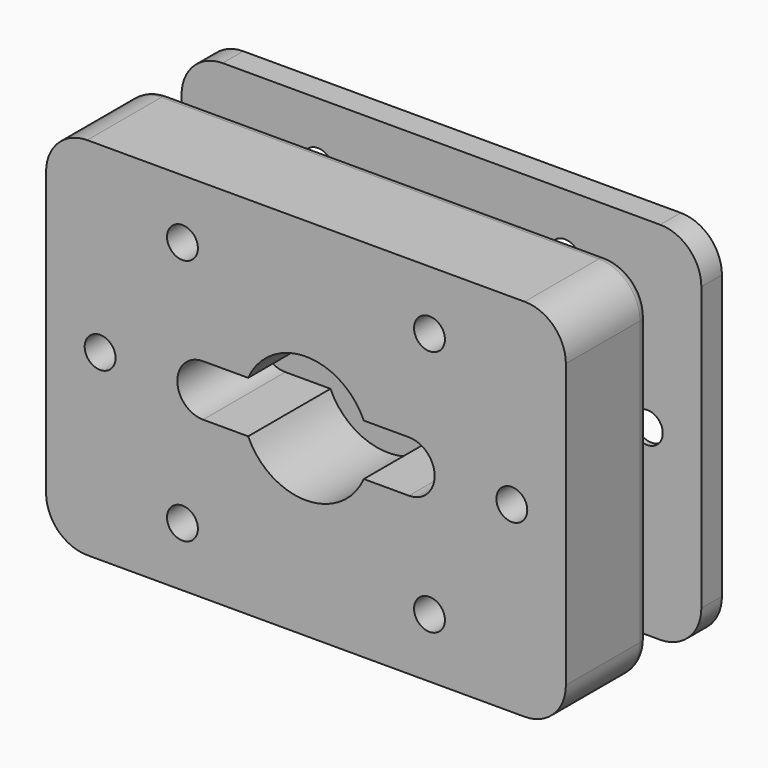
from build123d import *

# Parameters (mm, degrees)
F0_R     = 3.75
F0_R_2   = 1.5
F3_DEPTH = 2.5
F4_DEPTH = 2
F4_TAPER = 45
F2_R     = 1.5
F5_DEPTH = 10
F6_R     = 1


with BuildPart() as f3:
    # F0 (on Front) → F3 (new body)
    with BuildSketch(Plane.XZ):
        with BuildLine():
            ThreePointArc((25.25, 13.75), (24.0784271247, 16.5784271247), (21.25, 17.75))
            Line((21.25, 17.75), (-21.25, 17.75))
            ThreePointArc((-21.25, 17.75), (-24.0784271247, 16.5784271247), (-25.25, 13.75))
            Line((-25.25, 13.75), (-25.25, -13.75))
            ThreePointArc((-25.25, -13.75), (-24.0784271247, -16.5784271247), (-21.25, -17.75))
            Line((-21.25, -17.75), (21.25, -17.75))
            ThreePointArc((21.25, -17.75), (24.0784271247, -16.5784271247), (25.25, -13.75))
            Line((25.25, -13.75), (25.25, 13.75))
        make_face()
        with Locations((-12, -12)):
            Circle(F0_R, mode=Mode.SUBTRACT)
        with Locations((12, -12)):
            Circle(F0_R, mode=Mode.SUBTRACT)
        with Locations((-20, 0)):
            Circle(F0_R, mode=Mode.SUBTRACT)
        with Locations((-12, 12)):
            Circle(F0_R, mode=Mode.SUBTRACT)
        with BuildLine():
            ThreePointArc((-5.6189411814, 2.5), (0, 6.15), (5.6189411814, 2.5))
            Line((5.6189411814, 2.5), (10, 2.5))
            ThreePointArc((10, 2.5), (11.767766953, 1.767766953), (12.5, 0))
            ThreePointArc((12.5, 0), (11.767766953, -1.767766953), (10, -2.5))
            Line((10, -2.5), (5.6189411814, -2.5))
            ThreePointArc((5.6189411814, -2.5), (0, -6.15), (-5.6189411814, -2.5))
            Line((-5.6189411814, -2.5), (-10, -2.5))
            ThreePointArc((-10, -2.5), (-12.5, 0), (-10, 2.5))
            Line((-10, 2.5), (-5.6189411814, 2.5))
        make_face(mode=Mode.SUBTRACT)
        with Locations((20, 0)):
            Circle(F0_R, mode=Mode.SUBTRACT)
        with Locations((12, 12)):
            Circle(F0_R, mode=Mode.SUBTRACT)
        with Locations((-12, 12)):
            Circle(F0_R)
        with Locations((-12, 12)):
            Circle(F0_R_2, mode=Mode.SUBTRACT)
        with Locations((-20, 0)):
            Circle(F0_R)
        with Locations((-20, 0)):
            Circle(F0_R_2, mode=Mode.SUBTRACT)
        with Locations((-12, -12)):
            Circle(F0_R)
        with Locations((-12, -12)):
            Circle(F0_R_2, mode=Mode.SUBTRACT)
        with Locations((12, -12)):
            Circle(F0_R)
        with Locations((12, -12)):
            Circle(F0_R_2, mode=Mode.SUBTRACT)
        with Locations((20, 0)):
            Circle(F0_R)
        with Locations((20, 0)):
            Circle(F0_R_2, mode=Mode.SUBTRACT)
        with Locations((12, 12)):
            Circle(F0_R)
        with Locations((12, 12)):
            Circle(F0_R_2, mode=Mode.SUBTRACT)
    extrude(amount=F3_DEPTH)

    # F0 (on Front) → F4 (cut)
    with BuildSketch(Plane.XZ):
        with Locations((-20, 0)):
            Circle(F0_R)
        with Locations((-20, 0)):
            Circle(F0_R_2, mode=Mode.SUBTRACT)
        with Locations((12, -12)):
            Circle(F0_R)
        with Locations((12, -12)):
            Circle(F0_R_2, mode=Mode.SUBTRACT)
        with Locations((-12, 12)):
            Circle(F0_R)
        with Locations((-12, 12)):
            Circle(F0_R_2, mode=Mode.SUBTRACT)
        with Locations((12, 12)):
            Circle(F0_R)
        with Locations((12, 12)):
            Circle(F0_R_2, mode=Mode.SUBTRACT)
        with Locations((-12, -12)):
            Circle(F0_R)
        with Locations((-12, -12)):
            Circle(F0_R_2, mode=Mode.SUBTRACT)
        with Locations((20, 0)):
            Circle(F0_R)
        with Locations((20, 0)):
            Circle(F0_R_2, mode=Mode.SUBTRACT)
        with Locations((-12, 12)):
            Circle(F0_R_2)
        with Locations((-20, 0)):
            Circle(F0_R_2)
        with Locations((-12, -12)):
            Circle(F0_R_2)
        with Locations((12, -12)):
            Circle(F0_R_2)
        with Locations((20, 0)):
            Circle(F0_R_2)
        with Locations((12, 12)):
            Circle(F0_R_2)
    extrude(amount=F4_DEPTH, taper=F4_TAPER, mode=Mode.SUBTRACT)


with BuildPart() as f5:
    # F2 (on offset) → F5 (new body)
    with BuildSketch(Plane.XZ.offset(9)):
        with BuildLine():
            ThreePointArc((25.2888827066, 13.8850433886), (24.1173098313, 16.7134705133), (21.2888827066, 17.8850433886))
            Line((21.2888827066, 17.8850433886), (-21.2111172934, 17.8850433886))
            ThreePointArc((-21.2111172934, 17.8850433886), (-24.0395444182, 16.7134705133), (-25.2111172934, 13.8850433886))
            Line((-25.2111172934, 13.8850433886), (-25.2111172934, -13.6149566114))
            ThreePointArc((-25.2111172934, -13.6149566114), (-24.0395444182, -16.4433837362), (-21.2111172934, -17.6149566114))
            Line((-21.2111172934, -17.6149566114), (21.2888827066, -17.6149566114))
            ThreePointArc((21.2888827066, -17.6149566114), (24.1173098313, -16.4433837362), (25.2888827066, -13.6149566114))
            Line((25.2888827066, -13.6149566114), (25.2888827066, 13.8850433886))
        make_face()
        with Locations((-11.9611172934, -11.8649566114)):
            Circle(F2_R, mode=Mode.SUBTRACT)
        with Locations((-19.9611172934, 0.1350433886)):
            Circle(F2_R, mode=Mode.SUBTRACT)
        with Locations((12.0388827066, -11.8649566114)):
            Circle(F2_R, mode=Mode.SUBTRACT)
        with BuildLine():
            ThreePointArc((-5.5800584748, 2.6350433886), (0.0388827066, 6.2850433886), (5.657823888, 2.6350433886))
            Line((5.657823888, 2.6350433886), (10.0388827066, 2.6350433886))
            ThreePointArc((10.0388827066, 2.6350433886), (11.8066496595, 1.9028103415), (12.5388827066, 0.1350433886))
            ThreePointArc((12.5388827066, 0.1350433886), (11.8066496595, -1.6327235644), (10.0388827066, -2.3649566114))
            Line((10.0388827066, -2.3649566114), (5.657823888, -2.3649566114))
            ThreePointArc((5.657823888, -2.3649566114), (0.0388827066, -6.0149566114), (-5.5800584748, -2.3649566114))
            Line((-5.5800584748, -2.3649566114), (-9.9611172934, -2.3649566114))
            ThreePointArc((-9.9611172934, -2.3649566114), (-12.4611172934, 0.1350433886), (-9.9611172934, 2.6350433886))
            Line((-9.9611172934, 2.6350433886), (-5.5800584748, 2.6350433886))
        make_face(mode=Mode.SUBTRACT)
        with Locations((20.0388827066, 0.1350433886)):
            Circle(F2_R, mode=Mode.SUBTRACT)
        with Locations((-11.9611172934, 12.1350433886)):
            Circle(F2_R, mode=Mode.SUBTRACT)
        with Locations((12.0388827066, 12.1350433886)):
            Circle(F2_R, mode=Mode.SUBTRACT)
    extrude(amount=F5_DEPTH)

    # F6
    f6_edges = [f5.edges().sort_by_distance(p)[0] for p in [
        (25.288883, -9, 0.135043),
        (24.11731, -9, -16.443384),
        (0.038883, -9, -17.614957),
        (24.11731, -9, 16.713471),
        (-24.039544, -9, -16.443384),
        (-25.211117, -9, 0.135043),
        (-24.039544, -9, 16.713471),
        (0.038883, -9, 17.885043),
    ]]
    fillet(f6_edges, radius=F6_R)


solid = Compound([f3.part, f5.part])
